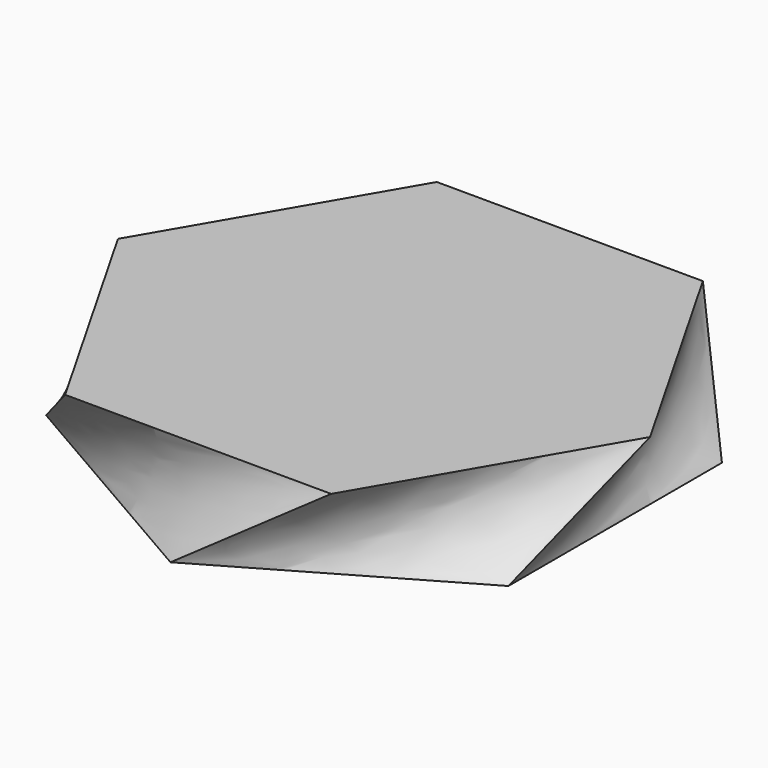
from build123d import *


with BuildPart() as f3:
    # F0 (on Top) → F3 section 0
    with BuildSketch(Plane.XY):
        Polygon((32.995568, -19.05), (32.995568, 19.05), (0, 38.1), (-32.995568, 19.05), (-32.995568, -19.05), (0, -38.1), align=None)
    # F2 (on offset) → F3 section 1
    with BuildSketch(Plane.XY.offset(12.7)):
        Polygon((38.099696, -0.152265), (19.181713, 32.919172), (-18.917983, 33.071437), (-38.099696, 0.152265), (-19.181713, -32.919172), (18.917983, -33.071437), align=None)
    loft()


solid = f3.part
